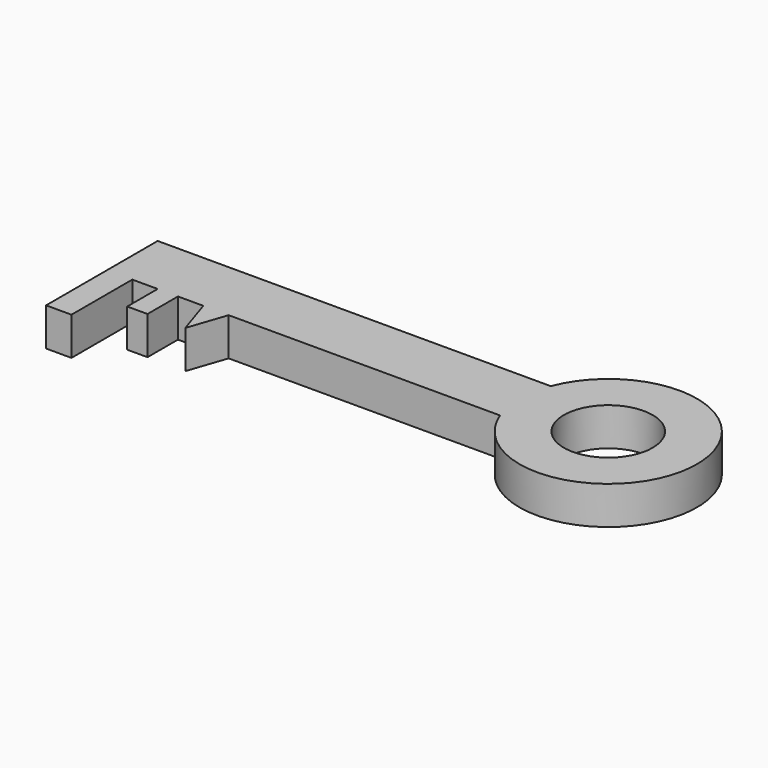
from build123d import *

# Parameters (mm, degrees)
F0_W     = 10
F0_H     = 30
F0_W_2   = 8
F0_H_2   = 15
F0_R     = 17.5
F1_DEPTH = 15


with BuildPart() as f1:
    # F0 (on Top) → F1 (new body)
    with BuildSketch(Plane.XY):
        Polygon((-5.181603, 14.949999), (-160.181603, 14.949999), (-160.181603, -10.050001), (-150.181603, -10.050001), (-140.181603, -10.050001), (-132.181603, -10.050001), (-122.181603, -10.050001), (-112.181603, -10.050001), (-5.181603, -10.050001), align=None)
        with Locations((-155.181603, -25.050001)):
            Rectangle(F0_W, F0_H)
        with Locations((-136.181603, -17.550001)):
            Rectangle(F0_W_2, F0_H_2)
        Polygon((-117.290795, -25.050001), (-112.181603, -10.050001), (-122.181603, -10.050001), align=None)
        with BuildLine():
            ThreePointArc((-5.181603, -10.050001), (62.510139, 2.449999), (-5.181603, 14.949999))
            Line((-5.181603, 14.949999), (-5.181603, -10.050001))
        make_face()
        with Locations((27.510139, 2.449999)):
            Circle(F0_R, mode=Mode.SUBTRACT)
    extrude(amount=F1_DEPTH)


solid = f1.part
